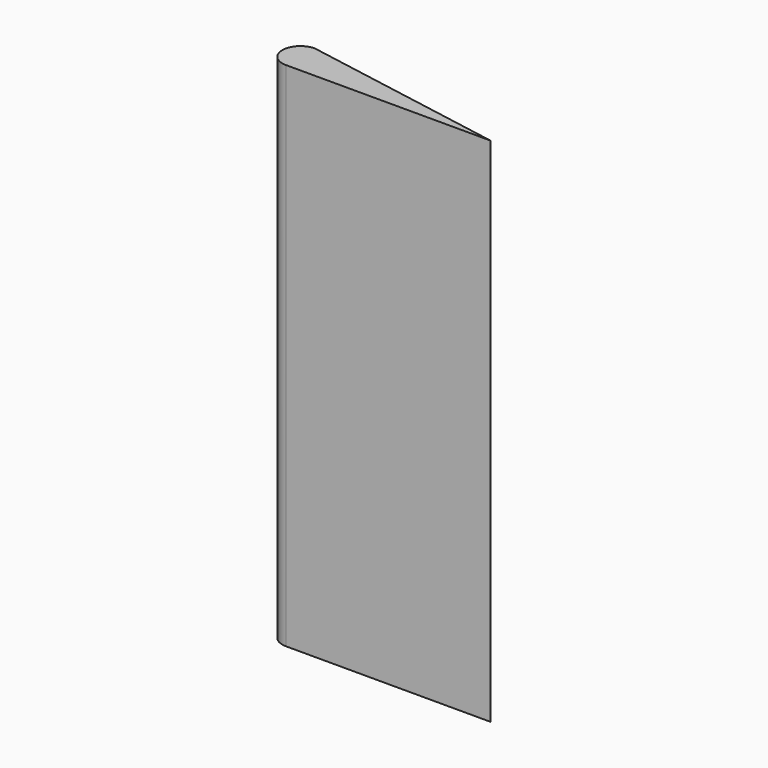
from build123d import *

# Parameters (mm, degrees)
F1_DEPTH = 150


with BuildPart() as f1:
    # F0 (on Top) → F1 (new body)
    with BuildSketch(Plane.XY):
        with BuildLine():
            ThreePointArc((0, 10.579619), (-5.289809, 5.289809), (0, 0))
            Line((0, 0), (60, 0))
            Line((60, 0), (0, 10.579619))
        make_face()
    extrude(amount=F1_DEPTH)


solid = f1.part
